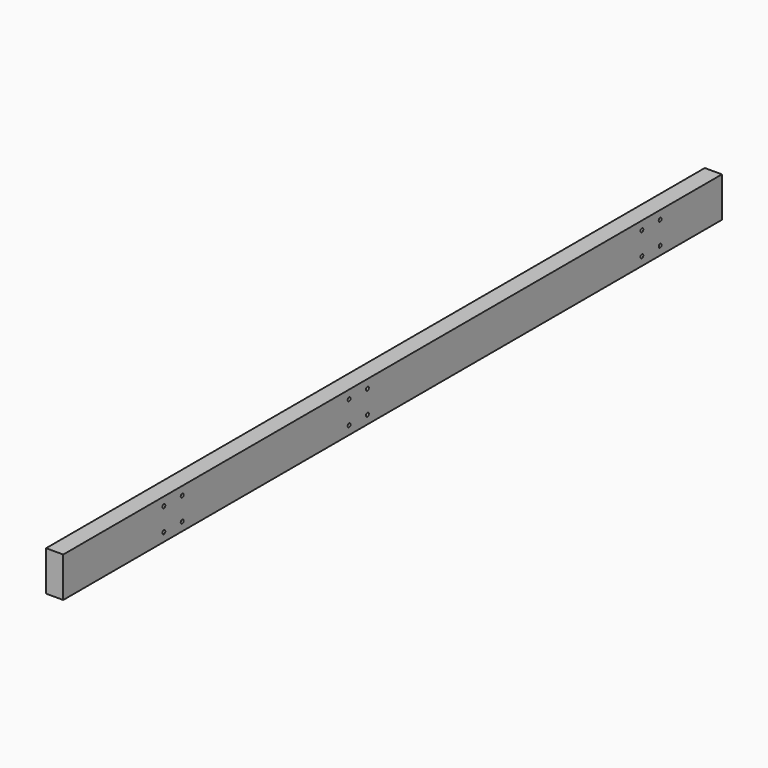
from build123d import *

# Parameters (mm, degrees)
F0_W     = 38.1
F0_H     = 88.9
F1_DEPTH = 1828.8
F2_R     = 3.96875
F3_DEPTH = 38.101


with BuildPart() as f1:
    # F0 (on Front) → F1 (new body)
    with BuildSketch(Plane.XZ):
        Rectangle(F0_W, F0_H)
    extrude(amount=F1_DEPTH)

    # F2 (on face) → F3 (cut, through all)
    with BuildSketch(Plane.YZ.offset(19.05)):
        with Locations((-1498.6, 25.4)):
            Circle(F2_R)
        with Locations((-1498.6, -25.4)):
            Circle(F2_R)
        with Locations((-1549.4, -25.4)):
            Circle(F2_R)
        with Locations((-1549.4, 25.4)):
            Circle(F2_R)
        with Locations((-1035.05, 25.4)):
            Circle(F2_R)
        with Locations((-1035.05, -25.4)):
            Circle(F2_R)
        with Locations((-984.25, -25.4)):
            Circle(F2_R)
        with Locations((-984.25, 25.4)):
            Circle(F2_R)
        with Locations((-222.25, 25.4)):
            Circle(F2_R)
        with Locations((-171.45, 25.4)):
            Circle(F2_R)
        with Locations((-171.45, -25.4)):
            Circle(F2_R)
        with Locations((-222.25, -25.4)):
            Circle(F2_R)
    extrude(amount=-F3_DEPTH, mode=Mode.SUBTRACT)


solid = f1.part
